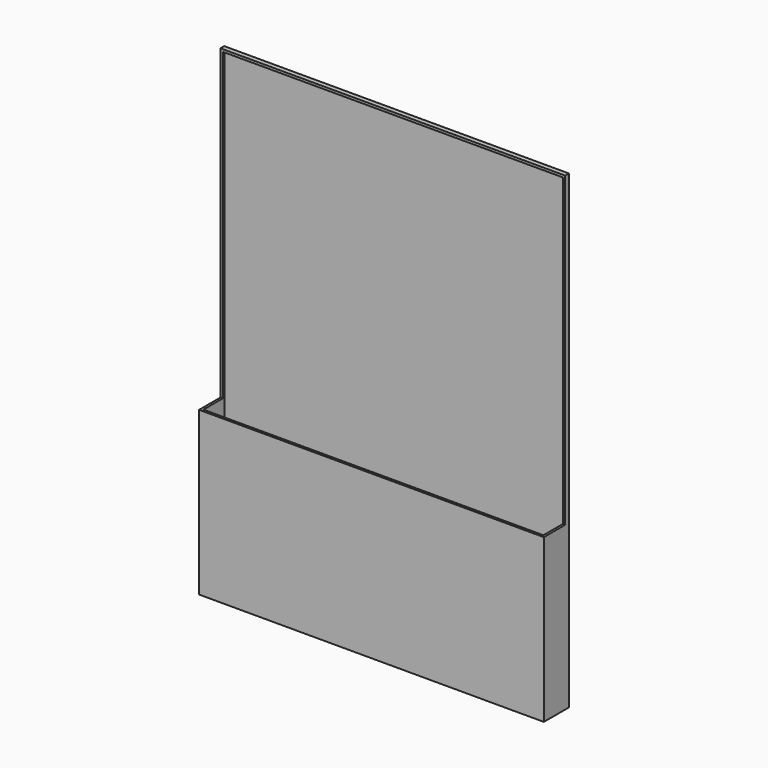
from build123d import *

# Parameters (mm, degrees)
F0_W     = 220
F0_H     = 103.788202
F1_DEPTH = 20
F0_H_2   = 196.211798
F2_DEPTH = 3
F3_T     = -1.5


with BuildPart() as f1:
    # F0 (on Front) → F1 (new body)
    with BuildSketch(Plane.XZ):
        with Locations((0, -98.105899)):
            Rectangle(F0_W, F0_H)
    extrude(amount=F1_DEPTH)

    # F0 (on Front) → F2 (join)
    with BuildSketch(Plane.XZ):
        with Locations((0, 51.894101)):
            Rectangle(F0_W, F0_H_2)
    extrude(amount=F2_DEPTH)

    # F3
    f3_openings = [f1.faces().sort_by_distance(p)[0] for p in [
        (0, -11.5, -46.211798),
        (0, -3, 51.894101),
    ]]
    offset(amount=F3_T, openings=f3_openings)


solid = f1.part
